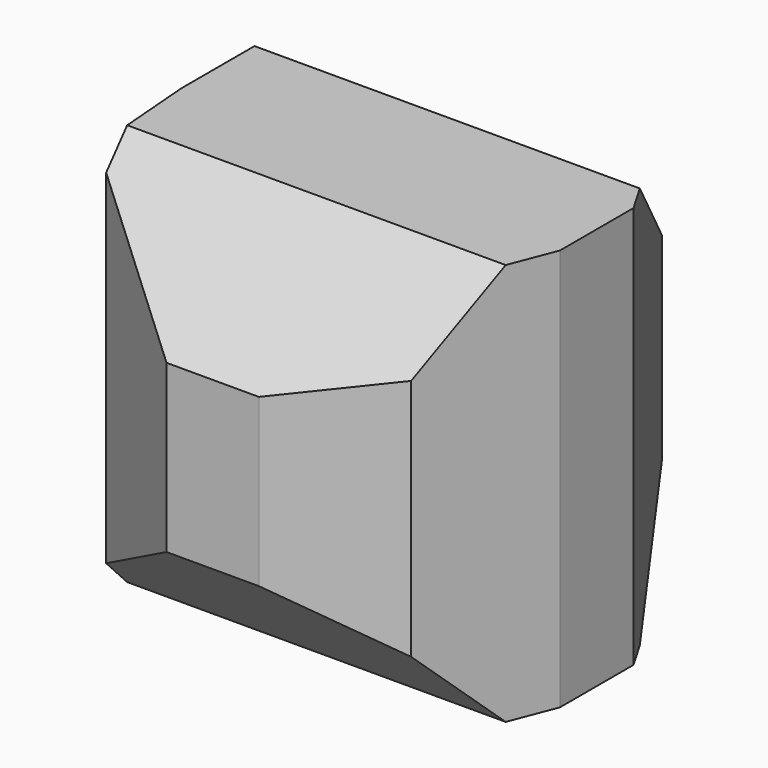
from build123d import *

# Parameters (mm, degrees)
F1_DEPTH = 12.7
F3_DEPTH = 12.7


with BuildPart() as f1:
    # F0 (on Top) → F1 (new body, symmetric)
    with BuildSketch(Plane.XY):
        Polygon((7.88855, 11.681875), (-4.214828, 13.451047), (-13.144354, 5.091305), (-12.175913, -7.102293), (-2.038762, -13.947719), (9.633619, -10.290229), (14.051688, 1.116014), align=None)
    extrude(amount=F1_DEPTH, both=True)

    # F2 (on Right) → F3 (intersect, symmetric)
    with BuildSketch(Plane.YZ):
        Polygon((5.260512, 12.7), (-5.260512, 12.7), (-12.7, 5.260512), (-12.7, -5.260512), (-5.260512, -12.7), (5.260512, -12.7), (12.7, -5.260512), (12.7, 5.260512), align=None)
    extrude(amount=F3_DEPTH, both=True, mode=Mode.INTERSECT)


solid = f1.part
